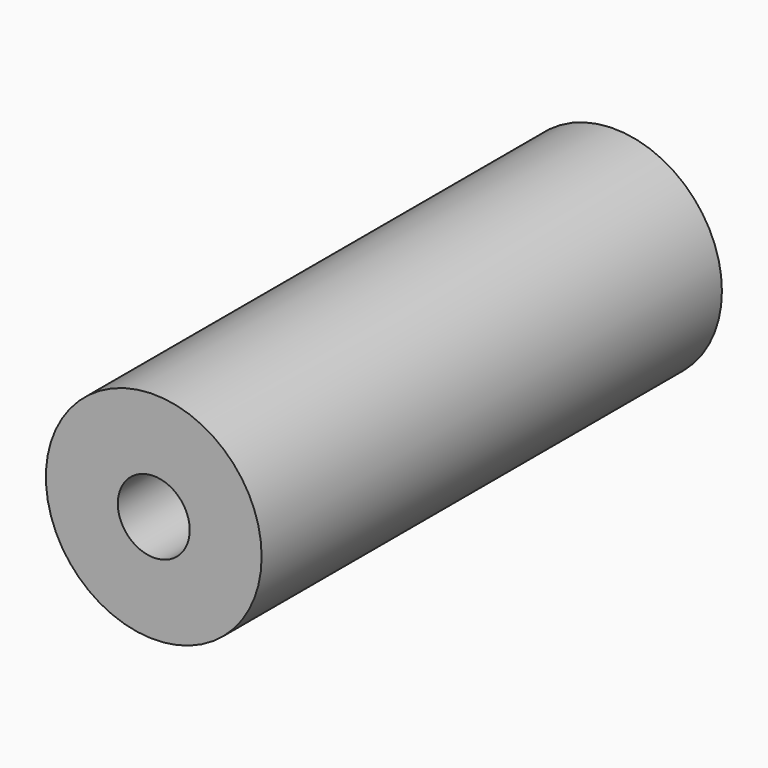
from build123d import *

# Parameters (mm, degrees)
F0_R     = 3.81
F0_R_2   = 1.27
F1_DEPTH = 19.05
F2_DEPTH = 6.35
F3_DEPTH = 5.08


with BuildPart() as f1:
    # F0 (on Front) → F1 (new body)
    with BuildSketch(Plane.XZ):
        Circle(F0_R)
        Circle(F0_R_2, mode=Mode.SUBTRACT)
    extrude(amount=F1_DEPTH)

    # F2 (add): a face of the model
    f2_faces = [f1.faces().sort_by_distance(p)[0] for p in [
        (-3.7022369265, -19.05, 0),
    ]]
    extrude(f2_faces, amount=F2_DEPTH)

    # F3 (cut): a face of the model
    f3_faces = [f1.faces().sort_by_distance(p)[0] for p in [
        (-3.7022369265, -25.4, 0),
    ]]
    extrude(f3_faces, amount=-F3_DEPTH, mode=Mode.SUBTRACT)


solid = f1.part
